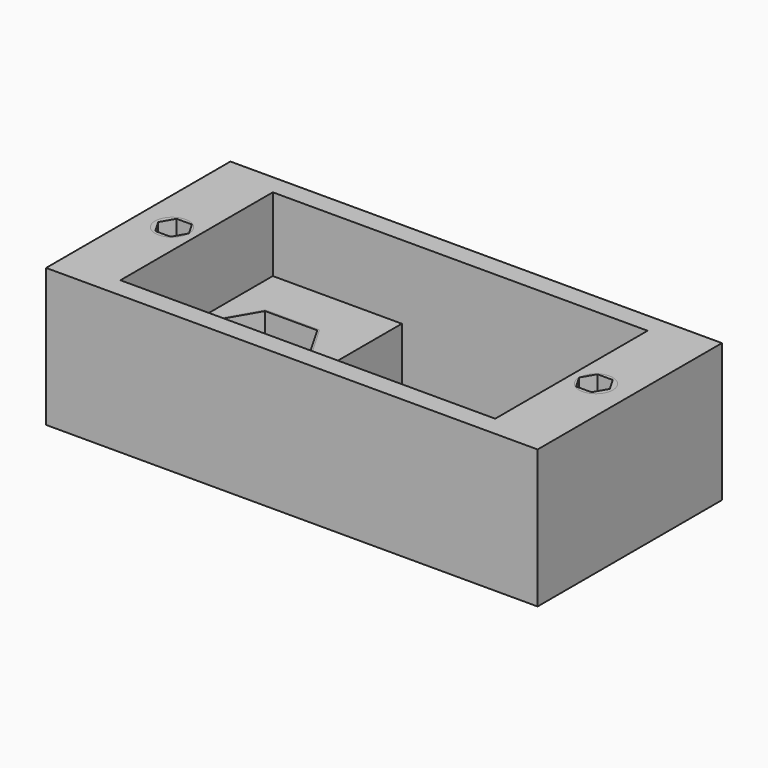
from build123d import *

# Parameters (mm, degrees)
CUBE002_W                  = 24.4
CUBE002_H                  = 12.4
CUBE002_DEPTH              = 4.8
PRISM_DEPTH                = 4.1
PRISM001_DEPTH             = 10
PRISM002_DEPTH             = 8
PRISM003_DEPTH             = 8
CUBE001_W                  = 16
CUBE001_H                  = 12.4
CUBE001_DEPTH              = 9
CUBE_W                     = 32
CUBE_H                     = 15
CUBE_DEPTH                 = 9
DIFFERENCE_PLACEMENT_ANGLE = 180
SKETCH_W                   = 32
SKETCH_H                   = 15
PAD_DEPTH                  = 9
SKETCH001_W                = 16
SKETCH001_H                = 12.4
POCKET_DEPTH               = 9.001
SKETCH002_W                = 8.4
SKETCH002_H                = 12.4
POCKET001_DEPTH            = 4.8
POCKET002_DEPTH            = 3.1
SKETCH004_R                = 2
POCKET003_DEPTH            = 9.001
SKETCH005_R                = 1.1
POCKET004_DEPTH            = 8


with BuildPart() as cube002:
    # cube002 → cube002 (new body)
    with BuildSketch(Plane(origin=(3.8, 1.3, 0), x_dir=(1, 0, 0), z_dir=(0, 0, 1))):
        with Locations((12.2, 6.2)):
            Rectangle(CUBE002_W, CUBE002_H)
    extrude(amount=CUBE002_DEPTH)


with BuildPart() as prism:
    # prism → prism (new body)
    with BuildSketch(Plane(origin=(7.6, 7.5, 3.8), x_dir=(1, 0, 0), z_dir=(0, 0, 1))):
        Polygon((3.4, 0), (1.7, 2.944486), (-1.7, 2.944486), (-3.4, 0), (-1.7, -2.944486), (1.7, -2.944486), align=None)
    extrude(amount=PRISM_DEPTH)


with BuildPart() as prism001:
    # prism001 → prism001 (new body)
    with BuildSketch(Plane(origin=(7.6, 7.5, 3.8), x_dir=(1, 0, 0), z_dir=(0, 0, 1))):
        Polygon((2, 0), (1.937166, 0.49738), (1.752613, 0.963507), (1.457937, 1.369094), (1.071654, 1.688656), (0.618034, 1.902113), (0.125581, 1.996053), (-0.374763, 1.964575), (-0.851559, 1.809654), (-1.274848, 1.541026), (-1.618034, 1.175571), (-1.859553, 0.736249), (-1.984229, 0.250666), (-1.984229, -0.250666), (-1.859553, -0.736249), (-1.618034, -1.175571), (-1.274848, -1.541026), (-0.851559, -1.809654), (-0.374763, -1.964575), (0.125581, -1.996053), (0.618034, -1.902113), (1.071654, -1.688656), (1.457937, -1.369094), (1.752613, -0.963507), (1.937166, -0.49738), align=None)
    extrude(amount=PRISM001_DEPTH)


with BuildPart() as prism002:
    # prism002 → prism002 (new body)
    with BuildSketch(Plane(origin=(2.3, 7.5, 0), x_dir=(1, 0, 0), z_dir=(0, 0, 1))):
        Polygon((1, 0), (0.5, 0.866025), (-0.5, 0.866025), (-1, 0), (-0.5, -0.866025), (0.5, -0.866025), align=None)
    extrude(amount=PRISM002_DEPTH)


with BuildPart() as prism003:
    # prism003 → prism003 (new body)
    with BuildSketch(Plane(origin=(29.7, 7.5, 0), x_dir=(1, 0, 0), z_dir=(0, 0, 1))):
        Polygon((1, 0), (0.5, 0.866025), (-0.5, 0.866025), (-1, 0), (-0.5, -0.866025), (0.5, -0.866025), align=None)
    extrude(amount=PRISM003_DEPTH)


with BuildPart() as union:
    # cube001 → cube001 (new body)
    with BuildSketch(Plane(origin=(12.2, 1.3, 0), x_dir=(1, 0, 0), z_dir=(0, 0, 1))):
        with Locations((8, 6.2)):
            Rectangle(CUBE001_W, CUBE001_H)
    extrude(amount=CUBE001_DEPTH)

    # union: union cube002, prism, prism001, prism002, prism003
    add(cube002.part)
    add(prism.part)
    add(prism001.part)
    add(prism002.part)
    add(prism003.part)


with BuildPart() as difference:
    # cube → cube (new body)
    with BuildSketch(Plane.XY):
        with Locations((16, 7.5)):
            Rectangle(CUBE_W, CUBE_H)
    extrude(amount=CUBE_DEPTH)

    # difference: cut union
    add(union.part, mode=Mode.SUBTRACT)


with BuildPart() as difference_1:
    # difference placement: moved
    add(difference.part.moved(Location((-16, 7.5, 9))).rotate(Axis((-16, 7.5, 9), (1, 0, 0)), DIFFERENCE_PLACEMENT_ANGLE))


with BuildPart() as top_drills:
    # Sketch → Pad (new body)
    with BuildSketch(Plane.XY):
        Rectangle(SKETCH_W, SKETCH_H)
    extrude(amount=PAD_DEPTH)

    # Sketch001 → Pocket (cut, through all)
    with BuildSketch(Plane(origin=(0, 0, 0), x_dir=(1, 0, 0), z_dir=(0, 0, -1))):
        with Locations((4.2, 0)):
            Rectangle(SKETCH001_W, SKETCH001_H)
    extrude(amount=-POCKET_DEPTH, mode=Mode.SUBTRACT)

    # Sketch002 → Pocket001 (cut)
    with BuildSketch(Plane.XY.offset(9)):
        with Locations((-8, 0)):
            Rectangle(SKETCH002_W, SKETCH002_H)
    extrude(amount=-POCKET001_DEPTH, mode=Mode.SUBTRACT)

    # Sketch003 → Pocket002 (cut)
    with BuildSketch(Plane.XY.offset(4.2)):
        Polygon((-11.921837, 0), (-10.160918, 3.05), (-6.639082, 3.05), (-4.878163, 0), (-6.639082, -3.05), (-10.160918, -3.05), align=None)
    extrude(amount=-POCKET002_DEPTH, mode=Mode.SUBTRACT)

    # Sketch004 → Pocket003 (cut, through all)
    with BuildSketch(Plane(origin=(0, 0, 0), x_dir=(1, 0, 0), z_dir=(0, 0, -1))):
        with Locations((-8.4, 0)):
            Circle(SKETCH004_R)
    extrude(amount=-POCKET003_DEPTH, mode=Mode.SUBTRACT)

    # Sketch005 → Pocket004 (cut)
    with BuildSketch(Plane.XY.offset(9)):
        with Locations((-13.8, 0)):
            Circle(SKETCH005_R)
        with Locations((13.8, 0)):
            Circle(SKETCH005_R)
    extrude(amount=-POCKET004_DEPTH, mode=Mode.SUBTRACT)


solid = Compound([difference_1.part, top_drills.part])
